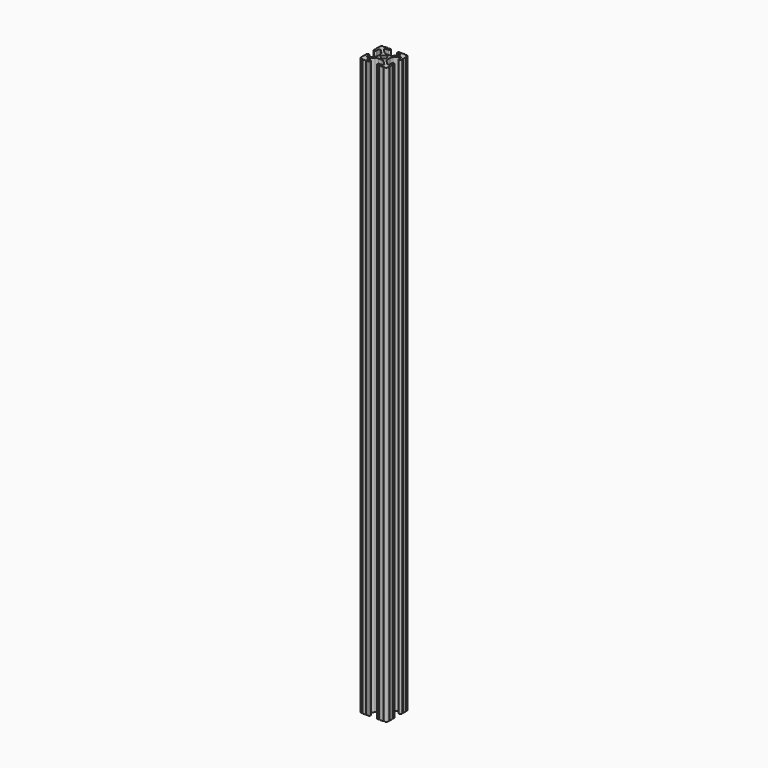
from build123d import *

# Parameters (mm, degrees)
SKETCH097_R   = 2.6035
EXTRUDE_DEPTH = 533.4


with BuildPart() as part:
    # Sketch097 → Extrude (new body)
    with BuildSketch(Plane.XY):
        with BuildLine():
            ThreePointArc((12.7, 6.333084), (12.192, 5.825084), (12.7, 5.317084))
            Line((12.7, 4.287469), (12.7, 5.317084))
            ThreePointArc((11.650988, 3.238457), (12.392751, 3.545706), (12.7, 4.287469))
            Line((11.539212, 3.238457), (11.650988, 3.238457))
            ThreePointArc((10.4902, 4.287469), (10.797449, 3.545706), (11.539212, 3.238457))
            Line((10.4902, 6.402089), (10.4902, 4.287469))
            ThreePointArc((10.4902, 6.402089), (9.856505, 7.351068), (8.737131, 7.129409))
            Line((5.441006, 3.840816), (8.737131, 7.129409))
            ThreePointArc((5.441006, 3.840816), (4.750878, 2.809883), (4.5085, 1.593186))
            Line((4.5085, -1.593186), (4.5085, 1.593186))
            ThreePointArc((4.5085, -1.593186), (4.750878, -2.809883), (5.441006, -3.840816))
            Line((8.737131, -7.129409), (5.441006, -3.840816))
            ThreePointArc((8.737131, -7.129409), (9.856505, -7.351068), (10.4902, -6.402089))
            Line((10.4902, -4.287469), (10.4902, -6.402089))
            ThreePointArc((11.539212, -3.238457), (10.797449, -3.545706), (10.4902, -4.287469))
            Line((11.650988, -3.238457), (11.539212, -3.238457))
            ThreePointArc((12.7, -4.287469), (12.392751, -3.545706), (11.650988, -3.238457))
            Line((12.7, -5.317084), (12.7, -4.287469))
            ThreePointArc((12.7, -5.317084), (12.192, -5.825084), (12.7, -6.333084))
            Line((12.7, -9.5504), (12.7, -6.333084))
            ThreePointArc((12.7, -9.5504), (12.192, -10.058323), (12.699847, -10.5664))
            ThreePointArc((10.566443, -12.699848), (12.082538, -12.082507), (12.699847, -10.5664))
            ThreePointArc((10.566443, -12.699848), (10.058367, -12.192), (9.550443, -12.7))
            Line((6.333127, -12.7), (9.550443, -12.7))
            ThreePointArc((6.333127, -12.7), (5.825127, -12.192), (5.317127, -12.7))
            Line((4.287512, -12.7), (5.317127, -12.7))
            ThreePointArc((3.2385, -11.650988), (3.545749, -12.392751), (4.287512, -12.7))
            Line((3.2385, -11.539212), (3.2385, -11.650988))
            ThreePointArc((4.287512, -10.4902), (3.545749, -10.797449), (3.2385, -11.539212))
            Line((6.416408, -10.4902), (4.287512, -10.4902))
            ThreePointArc((6.416408, -10.4902), (7.414731, -9.822813), (7.17965, -8.645193))
            Line((3.95227, -5.42369), (7.17965, -8.645193))
            ThreePointArc((3.95227, -5.42369), (2.922936, -4.736929), (1.709254, -4.4958))
            Line((-1.709254, -4.4958), (1.709254, -4.4958))
            ThreePointArc((-1.709254, -4.4958), (-2.922936, -4.736929), (-3.95227, -5.42369))
            Line((-7.17965, -8.645193), (-3.95227, -5.42369))
            ThreePointArc((-7.17965, -8.645193), (-7.414731, -9.822813), (-6.416408, -10.4902))
            Line((-4.287512, -10.4902), (-6.416408, -10.4902))
            ThreePointArc((-3.2385, -11.539212), (-3.545749, -10.797449), (-4.287512, -10.4902))
            Line((-3.2385, -11.650988), (-3.2385, -11.539212))
            ThreePointArc((-4.287512, -12.7), (-3.545749, -12.392751), (-3.2385, -11.650988))
            Line((-5.317127, -12.7), (-4.287512, -12.7))
            ThreePointArc((-5.317127, -12.7), (-5.825127, -12.192), (-6.333127, -12.7))
            Line((-9.550443, -12.7), (-6.333127, -12.7))
            ThreePointArc((-9.550443, -12.7), (-10.058367, -12.192), (-10.566443, -12.699848))
            ThreePointArc((-12.699847, -10.5664), (-12.082538, -12.082507), (-10.566443, -12.699848))
            ThreePointArc((-12.699847, -10.5664), (-12.192, -10.058323), (-12.7, -9.5504))
            Line((-12.7, -6.333084), (-12.7, -9.5504))
            ThreePointArc((-12.7, -6.333084), (-12.192, -5.825084), (-12.7, -5.317084))
            Line((-12.7, -4.287469), (-12.7, -5.317084))
            ThreePointArc((-11.650988, -3.238457), (-12.392751, -3.545706), (-12.7, -4.287469))
            Line((-11.539212, -3.238457), (-11.650988, -3.238457))
            ThreePointArc((-10.4902, -4.287469), (-10.797449, -3.545706), (-11.539212, -3.238457))
            Line((-10.4902, -6.402089), (-10.4902, -4.287469))
            ThreePointArc((-10.4902, -6.402089), (-9.856505, -7.351068), (-8.737131, -7.129409))
            Line((-5.441006, -3.840816), (-8.737131, -7.129409))
            ThreePointArc((-5.441006, -3.840816), (-4.750878, -2.809883), (-4.5085, -1.593186))
            Line((-4.5085, 1.593186), (-4.5085, -1.593186))
            ThreePointArc((-4.5085, 1.593186), (-4.750878, 2.809883), (-5.441006, 3.840816))
            Line((-8.737131, 7.129409), (-5.441006, 3.840816))
            ThreePointArc((-8.737131, 7.129409), (-9.856505, 7.351068), (-10.4902, 6.402089))
            Line((-10.4902, 4.287469), (-10.4902, 6.402089))
            ThreePointArc((-11.539212, 3.238457), (-10.797449, 3.545706), (-10.4902, 4.287469))
            Line((-11.650988, 3.238457), (-11.539212, 3.238457))
            ThreePointArc((-12.7, 4.287469), (-12.392751, 3.545706), (-11.650988, 3.238457))
            Line((-12.7, 5.317084), (-12.7, 4.287469))
            ThreePointArc((-12.7, 5.317084), (-12.192, 5.825084), (-12.7, 6.333084))
            Line((-12.7, 9.5504), (-12.7, 6.333084))
            ThreePointArc((-12.7, 9.5504), (-12.192, 10.058323), (-12.699847, 10.5664))
            ThreePointArc((-10.566443, 12.699848), (-12.082538, 12.082507), (-12.699847, 10.5664))
            ThreePointArc((-10.566443, 12.699848), (-10.058367, 12.192), (-9.550443, 12.7))
            Line((-6.333127, 12.7), (-9.550443, 12.7))
            ThreePointArc((-6.333127, 12.7), (-5.825127, 12.192), (-5.317127, 12.7))
            Line((-4.287512, 12.7), (-5.317127, 12.7))
            ThreePointArc((-3.2385, 11.650988), (-3.545749, 12.392751), (-4.287512, 12.7))
            Line((-3.2385, 11.539212), (-3.2385, 11.650988))
            ThreePointArc((-4.287512, 10.4902), (-3.545749, 10.797449), (-3.2385, 11.539212))
            Line((-6.476789, 10.4902), (-4.287512, 10.4902))
            ThreePointArc((-6.476789, 10.4902), (-7.432222, 9.851404), (-7.207036, 8.724371))
            Line((-3.898273, 5.423169), (-7.207036, 8.724371))
            ThreePointArc((-3.898273, 5.423169), (-2.86912, 4.736788), (-1.655778, 4.4958))
            Line((1.655778, 4.4958), (-1.655778, 4.4958))
            ThreePointArc((1.655778, 4.4958), (2.86912, 4.736788), (3.898273, 5.423169))
            Line((7.207036, 8.724371), (3.898273, 5.423169))
            ThreePointArc((7.207036, 8.724371), (7.432222, 9.851404), (6.476789, 10.4902))
            Line((4.287512, 10.4902), (6.476789, 10.4902))
            ThreePointArc((3.2385, 11.539212), (3.545749, 10.797449), (4.287512, 10.4902))
            Line((3.2385, 11.650988), (3.2385, 11.539212))
            ThreePointArc((4.287512, 12.7), (3.545749, 12.392751), (3.2385, 11.650988))
            Line((5.317127, 12.7), (4.287512, 12.7))
            ThreePointArc((5.317127, 12.7), (5.825127, 12.192), (6.333127, 12.7))
            Line((9.550443, 12.7), (6.333127, 12.7))
            ThreePointArc((9.550443, 12.7), (10.058367, 12.192), (10.566443, 12.699848))
            ThreePointArc((12.699847, 10.5664), (12.082538, 12.082507), (10.566443, 12.699848))
            ThreePointArc((12.699847, 10.5664), (12.192, 10.058323), (12.7, 9.5504))
            Line((12.7, 6.333084), (12.7, 9.5504))
        make_face()
        Circle(SKETCH097_R, mode=Mode.SUBTRACT)
    extrude(amount=EXTRUDE_DEPTH)


solid = part.part
